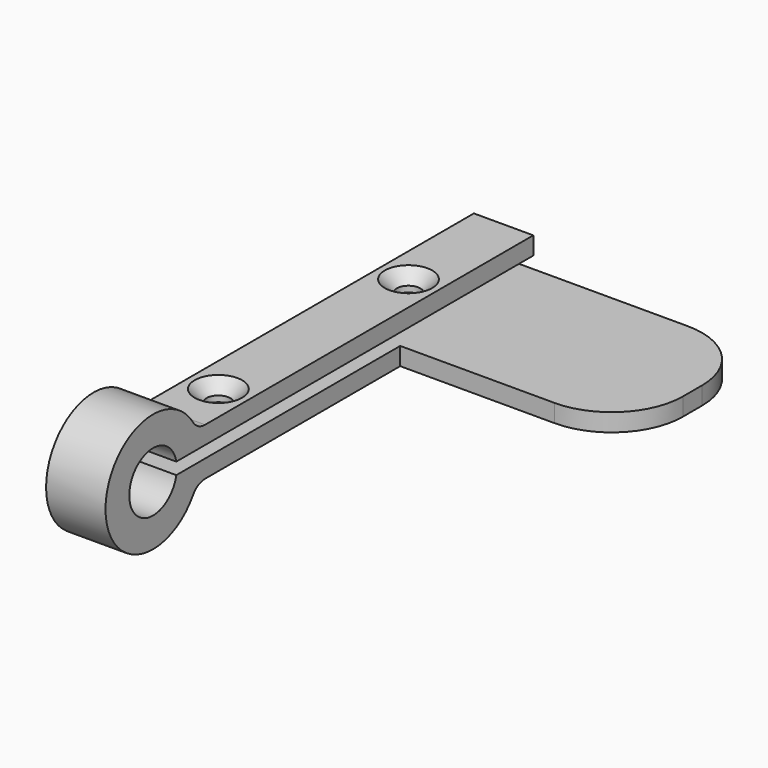
from build123d import *

# Parameters (mm, degrees)
SKETCH_R        = 10
PAD_DEPTH       = 10
HOLE_DEPTH      = 0.001
HOLE_FACE4_R    = 5
POCKET_DEPTH    = 11
SKETCH001_W     = 75
SKETCH001_H     = 3
PAD001_DEPTH    = 10
SKETCH002_W     = 5.5
SKETCH002_H     = 2
POCKET001_DEPTH = 10
FILLET_R        = 3
FILLET001_R     = 3
POCKET002_DEPTH = 1.5
SKETCH004_R     = 2
POCKET003_DEPTH = 7
CHAMFER_SIZE    = 2
SKETCH005_R     = 2
POCKET004_DEPTH = 7
CHAMFER001_SIZE = 2
SKETCH006_W     = 28
SKETCH006_H     = 3
PAD002_DEPTH    = 38
FILLET002_R     = 12


with BuildPart() as part:
    # Sketch → Pad (new body)
    with BuildSketch(Plane.YZ):
        Circle(SKETCH_R)
    extrude(amount=PAD_DEPTH)

    # Sketch → Hole (cut, through all)
    with BuildSketch(Plane.YZ):
        Circle(SKETCH_R)
    extrude(amount=-HOLE_DEPTH, mode=Mode.SUBTRACT)

    # Hole Face4 → Pocket (cut)
    with BuildSketch(Plane(origin=(0, 0, 0), x_dir=(0, 1, 0), z_dir=(-1, 0, 0))):
        Circle(HOLE_FACE4_R)
    extrude(amount=-POCKET_DEPTH, mode=Mode.SUBTRACT)

    # Sketch001 → Pad001 (join)
    with BuildSketch(Plane.YZ):
        with Locations((42.5, 2.5)):
            Rectangle(SKETCH001_W, SKETCH001_H)
        with Locations((42.5, -2.5)):
            Rectangle(SKETCH001_W, SKETCH001_H)
    extrude(amount=PAD001_DEPTH)

    # Sketch002 (on Face2 of Pad001) → Pocket001 (cut)
    with BuildSketch(Plane(origin=(0, 0, 0), x_dir=(0, 1, 0), z_dir=(-1, 0, 0))):
        with Locations((7.25, 0)):
            Rectangle(SKETCH002_W, SKETCH002_H)
    extrude(amount=-POCKET001_DEPTH, mode=Mode.SUBTRACT)

    # Fillet
    fillet_edges = [part.edges().sort_by_distance(p)[0] for p in [
        (5, 9.165151, -4),
    ]]
    fillet(fillet_edges, radius=FILLET_R)

    # Fillet001
    fillet001_edges = [part.edges().sort_by_distance(p)[0] for p in [
        (5, 9.165151, 4),
    ]]
    fillet(fillet001_edges, radius=FILLET001_R)

    # Sketch003 (on Face17 of Fillet001) → Pocket002 (cut)
    with BuildSketch(Plane.YX.offset(4)):
        Polygon((23.464102, 3), (23.464102, 7), (20, 9), (16.535898, 7), (16.535898, 3), (20, 1), align=None)
        Polygon((63.464102, 3), (63.464102, 7), (60, 9), (56.535898, 7), (56.535898, 3), (60, 1), align=None)
    extrude(amount=-POCKET002_DEPTH, mode=Mode.SUBTRACT)

    # Sketch004 (on Face13 of Pocket002) → Pocket003 (cut)
    with BuildSketch(Plane(origin=(0, 0, 4), x_dir=(0, -1, 0), z_dir=(0, 0, 1))):
        with Locations((-20, 5)):
            Circle(SKETCH004_R)
    extrude(amount=-POCKET003_DEPTH, mode=Mode.SUBTRACT)

    # Chamfer
    chamfer_edges = [part.edges().sort_by_distance(p)[0] for p in [
        (5, 22, 4),
    ]]
    chamfer(chamfer_edges, length=CHAMFER_SIZE)

    # Sketch005 (on Face40 of Chamfer) → Pocket004 (cut)
    with BuildSketch(Plane.YX.offset(2.5)):
        with Locations((60, 5)):
            Circle(SKETCH005_R)
    extrude(amount=-POCKET004_DEPTH, mode=Mode.SUBTRACT)

    # Chamfer001
    chamfer001_edges = [part.edges().sort_by_distance(p)[0] for p in [
        (5, 58, 4),
    ]]
    chamfer(chamfer001_edges, length=CHAMFER001_SIZE)

    # Sketch006 (on Face6 of Chamfer001) → Pad002 (join)
    with BuildSketch(Plane.YZ.offset(10)):
        with Locations((66, -2.5)):
            Rectangle(SKETCH006_W, SKETCH006_H)
    extrude(amount=PAD002_DEPTH)

    # Fillet002
    fillet002_edges = [part.edges().sort_by_distance(p)[0] for p in [
        (48, 52, -2.5),
        (48, 80, -2.5),
    ]]
    fillet(fillet002_edges, radius=FILLET002_R)


solid = part.part
